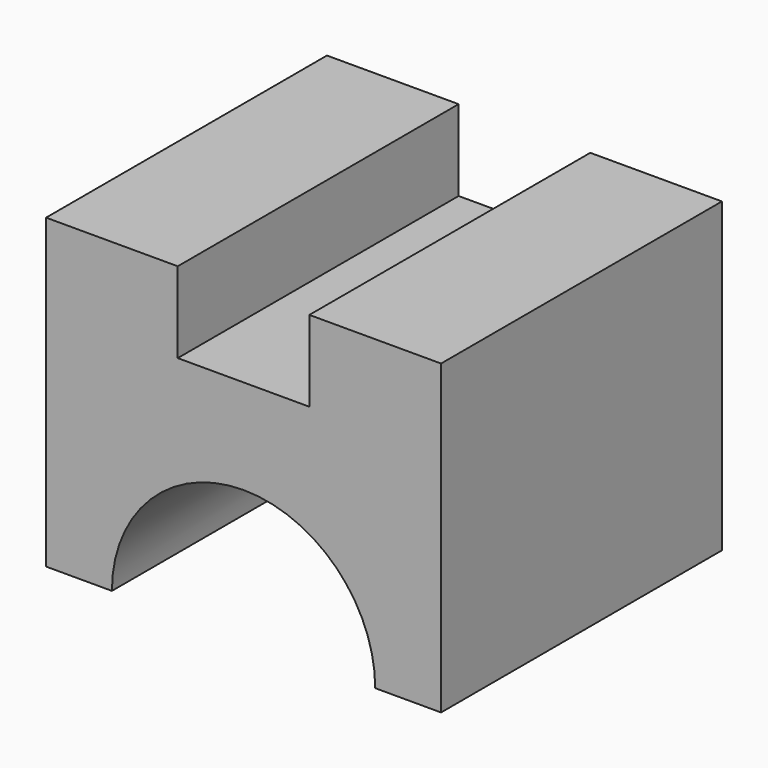
from build123d import *

# Parameters (mm, degrees)
F1_DEPTH = 40


with BuildPart() as f1:
    # F0 (on Front) → F1 (new body)
    with BuildSketch(Plane.XZ):
        with BuildLine():
            Line((0, 35), (0, 0))
            Line((0, 0), (7.5, 0))
            ThreePointArc((7.5, 0), (22.5, 15), (37.5, 0))
            Line((37.5, 0), (45, 0))
            Line((45, 0), (45, 35))
            Line((45, 35), (30, 35))
            Line((30, 35), (30, 25.78854))
            Line((30, 25.78854), (15, 25.78854))
            Line((15, 25.78854), (15, 35))
            Line((15, 35), (0, 35))
        make_face()
    extrude(amount=F1_DEPTH)


solid = f1.part
